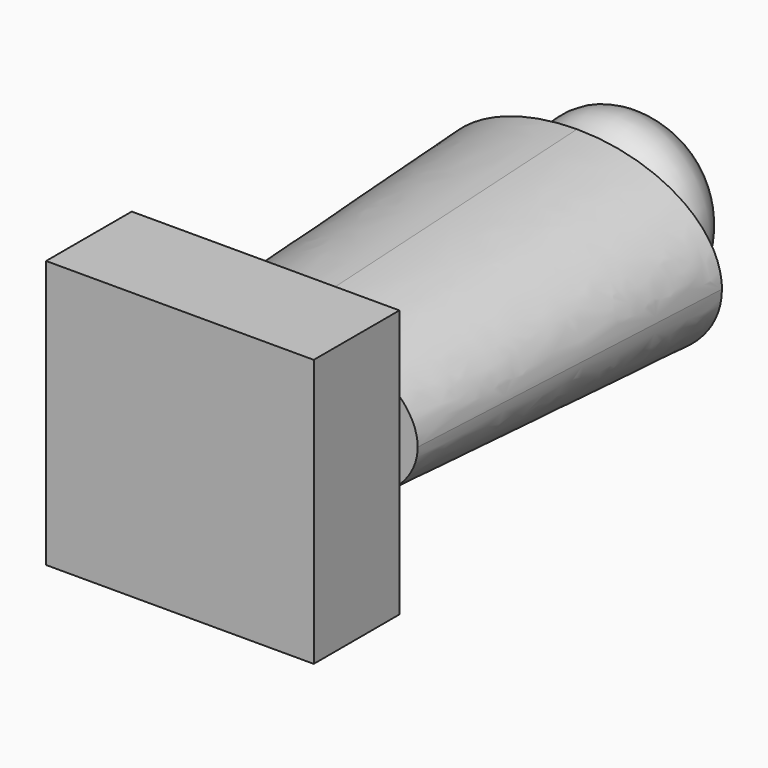
from build123d import *

# Parameters (mm, degrees)
F0_W     = 19.05
F0_H     = 19.05
F1_DEPTH = 7.62
F3_DEPTH = 2.54
F5_DEPTH = 25.4
F5_TAPER = -3


with BuildPart() as f1:
    # F0 (on Front) → F1 (new body)
    with BuildSketch(Plane.XZ):
        with Locations((-9.525, 9.525)):
            Rectangle(F0_W, F0_H)
    extrude(amount=F1_DEPTH)

    # F2 (on Front) → F3 (join)
    with BuildSketch(Plane.XZ):
        with BuildLine():
            add(Edge.make_bspline(
                [(-17.1804465353, 9.2169921845), (-17.1804465353, 2.2460640893), (-5.9737386182, 5.7315281369), (5.232969299, 9.2169921845), (-5.9737386182, 12.7024562321), (-17.1804465353, 16.1879202798), (-17.1804465353, 9.2169921845)],
                knots=[0, 0, 0, 2.0943951024, 2.0943951024, 4.1887902048, 4.1887902048, 6.2831853072, 6.2831853072, 6.2831853072], degree=2, weights=[1, 0.5, 1, 0.5, 1, 0.5, 1]))
        make_face()
    extrude(amount=-F3_DEPTH)

    # F4 (on face) → F5 (join)
    with BuildSketch(Plane(origin=(0, 2.54, 0), x_dir=(-1, 0, 0), z_dir=(0, 1, 0))):
        with BuildLine():
            add(Edge.make_bspline(
                [(18.6887718737, 9.2169921845), (18.6887718737, 18.4670335305), (5.219575949, 13.8420128575), (-8.2496199757, 9.2169921845), (5.219575949, 4.5919715115), (18.6887718737, -0.0330491615), (18.6887718737, 9.2169921845)],
                knots=[0, 0, 0, 2.0943951024, 2.0943951024, 4.1887902048, 4.1887902048, 6.2831853072, 6.2831853072, 6.2831853072], degree=2, weights=[1, 0.5, 1, 0.5, 1, 0.5, 1]))
        make_face()
        with BuildLine():
            add(Edge.make_bspline(
                [(17.1804465353, 9.2169921845), (17.1804465353, 2.2460640893), (5.9737386182, 5.7315281369), (-5.232969299, 9.2169921845), (5.9737386182, 12.7024562321), (17.1804465353, 16.1879202798), (17.1804465353, 9.2169921845)],
                knots=[0, 0, 0, 2.0943951024, 2.0943951024, 4.1887902048, 4.1887902048, 6.2831853072, 6.2831853072, 6.2831853072], degree=2, weights=[1, 0.5, 1, 0.5, 1, 0.5, 1]))
        make_face(mode=Mode.SUBTRACT)
        with BuildLine():
            add(Edge.make_bspline(
                [(17.1804465353, 9.2169921845), (17.1804465353, 2.2460640893), (5.9737386182, 5.7315281369), (-5.232969299, 9.2169921845), (5.9737386182, 12.7024562321), (17.1804465353, 16.1879202798), (17.1804465353, 9.2169921845)],
                knots=[0, 0, 0, 2.0943951024, 2.0943951024, 4.1887902048, 4.1887902048, 6.2831853072, 6.2831853072, 6.2831853072], degree=2, weights=[1, 0.5, 1, 0.5, 1, 0.5, 1]))
        make_face()
    extrude(amount=F5_DEPTH, taper=F5_TAPER)

    # F7 (on mid) → F8 (revolve)
    with BuildSketch(Plane(origin=(0, 0, 9.525), x_dir=(1, 0, 0), z_dir=(0, 0, -1))):
        with BuildLine():
            add(Edge.make_bspline(
                [(-9.525, -36.6714112461), (-11.0661055755, -36.3861822041), (-17.0145209502, -32.8336860171), (-14.584518587, -28.0642345527), (-10.8194475432, -27.5297874767), (-9.525, -27.0184315741)],
                knots=[0, 0, 0, 0, 0.3923907182, 0.6757107537, 1, 1, 1, 1], degree=3))
            Line((-9.525, -36.6714112461), (-9.525, -27.0184315741))
        make_face()
    revolve(axis=Axis((-9.525, 31.8449214101, 9.525), (0, -1, 0)))


solid = f1.part
